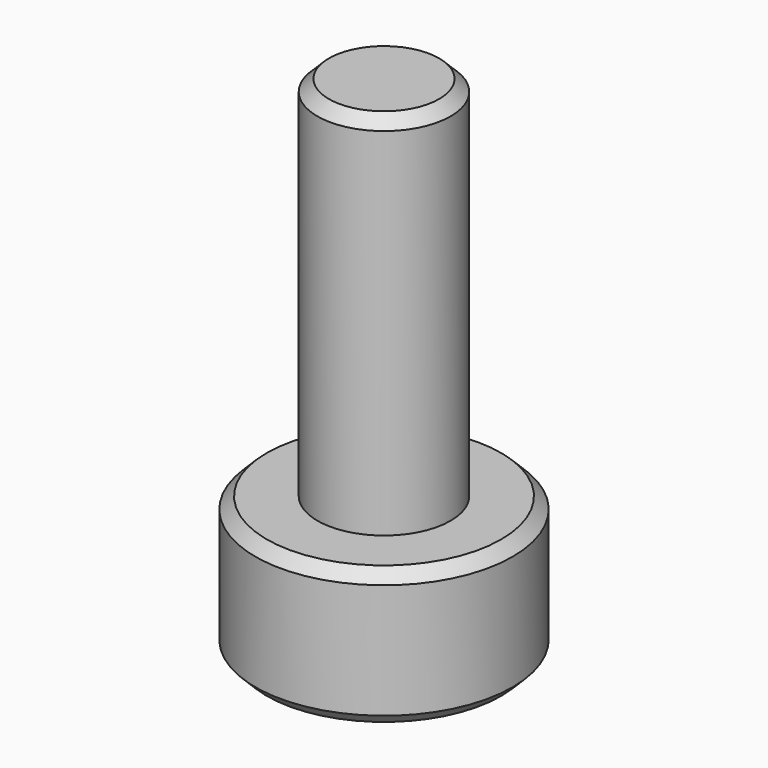
from build123d import *

# Parameters (mm, degrees)
SKETCH_R     = 2.8
PAD_DEPTH    = 3
SKETCH001_R  = 1.45
PAD001_DEPTH = 8
POCKET_DEPTH = 2
CHAMFER_SIZE = 0.25


with BuildPart() as part:
    # Sketch → Pad (new body)
    with BuildSketch(Plane.XY):
        Circle(SKETCH_R)
    extrude(amount=PAD_DEPTH)

    # Sketch001 (on Face3 of Pad) → Pad001 (join)
    with BuildSketch(Plane.XY.offset(3)):
        Circle(SKETCH001_R)
    extrude(amount=PAD001_DEPTH)

    # Sketch002 (on Face2 of Pad001) → Pocket (cut)
    with BuildSketch(Plane(origin=(0, 0, 0), x_dir=(1, 0, 0), z_dir=(0, 0, -1))):
        Polygon((1.259542, 0.814588), (-0.075682, 1.49809), (-1.335225, 0.683502), (-1.259542, -0.814588), (0.075682, -1.49809), (1.335225, -0.683502), align=None)
    extrude(amount=-POCKET_DEPTH, mode=Mode.SUBTRACT)

    # Chamfer
    chamfer_edges = [part.edges().sort_by_distance(p)[0] for p in [
        (-2.8, 0, 3),
        (-2.8, 0, 0),
        (1.297384, -0.065543, 0),
        (0.705454, 1.090796, 0),
        (-0.59193, 1.156339, 0),
        (-1.297384, 0.065543, 0),
        (-0.705454, -1.090796, 0),
        (0.59193, -1.156339, 0),
        (-1.45, 0, 11),
    ]]
    chamfer(chamfer_edges, length=CHAMFER_SIZE)


solid = part.part
